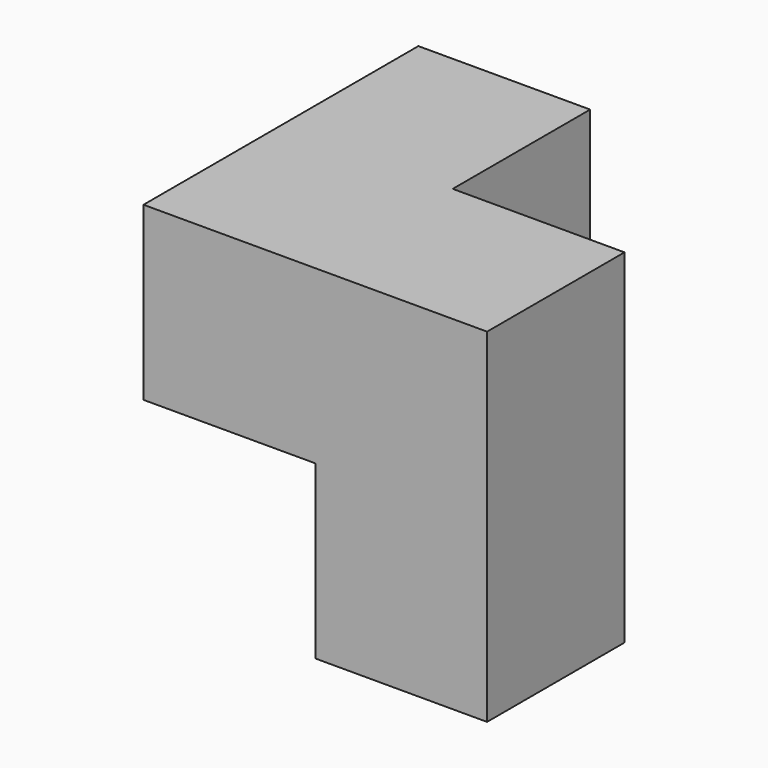
from build123d import *

# Parameters (mm, degrees)
F0_W     = 25.4
F0_H     = 25.4
F1_DEPTH = 50.8
F2_DEPTH = 25.4


with BuildPart() as f1:
    # F0 (on Top) → F1 (new body)
    with BuildSketch(Plane.XY):
        with Locations((12.7, 12.7)):
            Rectangle(F0_W, F0_H)
        with Locations((38.1, 12.7)):
            Rectangle(F0_W, F0_H)
        with Locations((12.7, 38.1)):
            Rectangle(F0_W, F0_H)
    extrude(amount=F1_DEPTH)

    # F0 (on Top) → F2 (cut)
    with BuildSketch(Plane.XY):
        with Locations((12.7, 12.7)):
            Rectangle(F0_W, F0_H)
        with Locations((12.7, 38.1)):
            Rectangle(F0_W, F0_H)
    extrude(amount=F2_DEPTH, mode=Mode.SUBTRACT)


solid = f1.part
